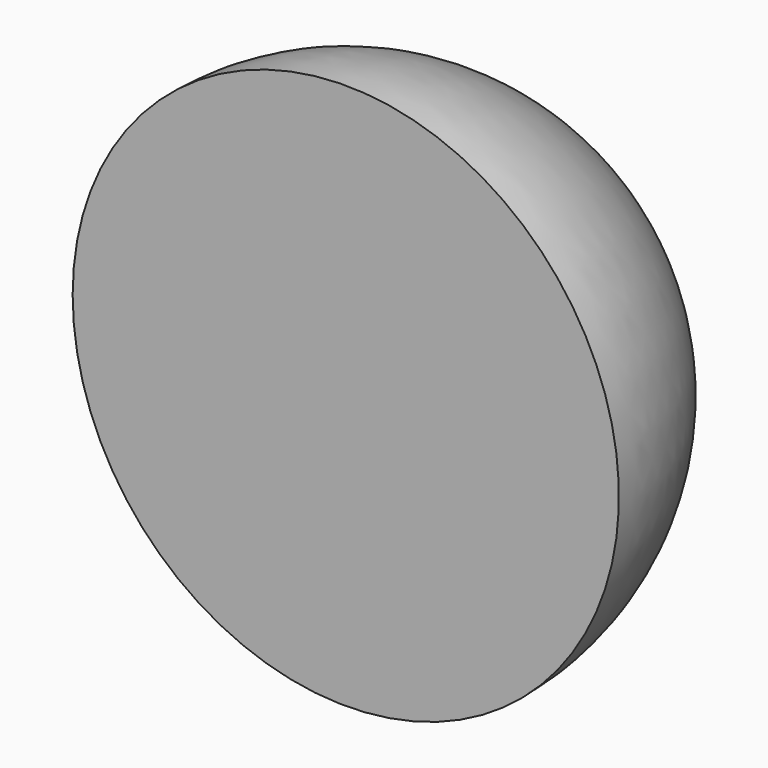
from build123d import *


with BuildPart() as f1:
    # F0 (on Top) → F1 (revolve)
    with BuildSketch(Plane.XY):
        with BuildLine():
            ThreePointArc((5, 5), (1.464466, 3.535534), (0, 0))
            Line((0, 0), (5, 0))
            Line((5, 0), (5, 5))
        make_face()
    revolve(axis=Axis((5, 2.5, 0), (0, 1, 0)))


solid = f1.part
